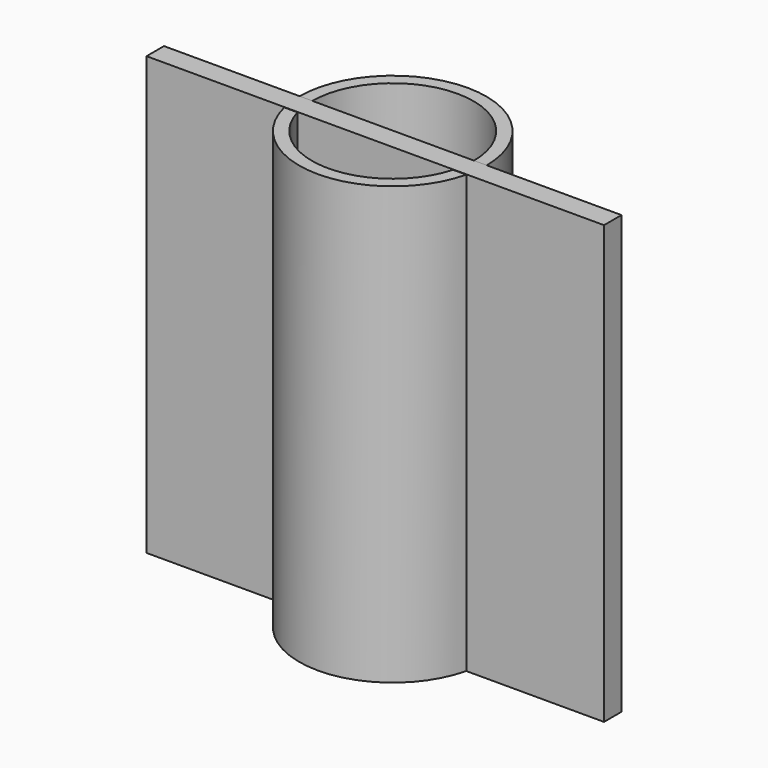
from build123d import *

# Parameters (mm, degrees)
F0_R     = 11.1
F1_DEPTH = 1.2
F0_R_2   = 12.85
F2_DEPTH = 60
F3_W     = 62.815846
F3_H     = 60.049228
F4_DEPTH = 3


with BuildPart() as f1:
    # F0 (on Top) → F1 (new body)
    with BuildSketch(Plane.XY):
        Circle(F0_R)
    extrude(amount=F1_DEPTH)

    # F0 (on Top) → F2 (join)
    with BuildSketch(Plane.XY):
        Circle(F0_R_2)
        Circle(F0_R, mode=Mode.SUBTRACT)
    extrude(amount=F2_DEPTH)

    # F3 (on Front) → F4 (join)
    with BuildSketch(Plane.XZ):
        with Locations((0, 30.024614)):
            Rectangle(F3_W, F3_H)
    extrude(amount=F4_DEPTH)


solid = f1.part
